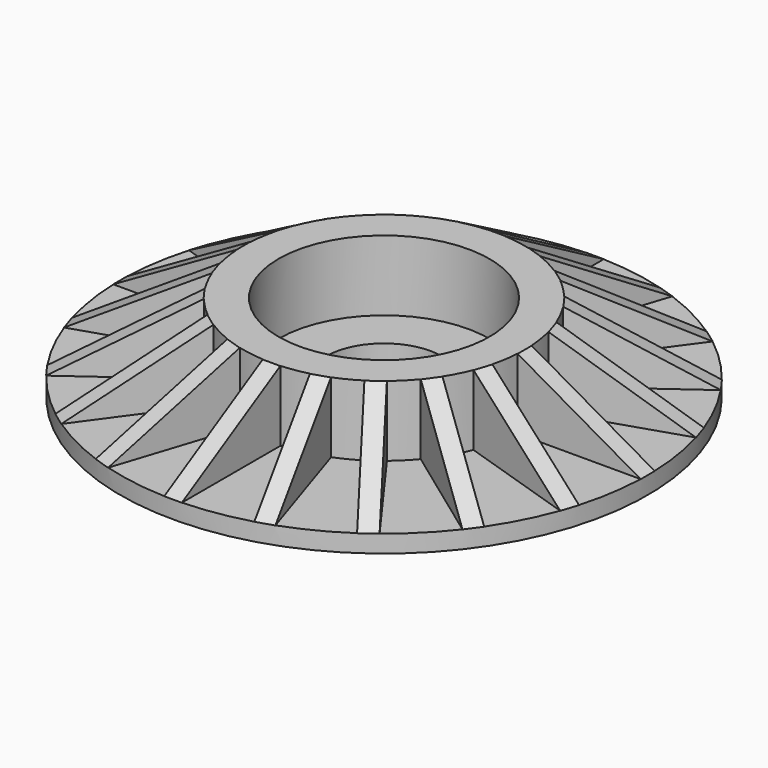
from build123d import *

# Parameters (mm, degrees)
EXTRUDE016_DEPTH = 0.5
ARRAY_COUNT      = 20


with BuildPart() as revolve003:
    # Sketch022 → Revolve003 (revolve)
    with BuildSketch(Plane.XZ):
        Polygon((-3.3, 1), (-15, 1), (-15, 2), (-8, 2), (-8, 6), (-6, 6), (-6, 2), (-3.3, 2), align=None)
    revolve(axis=Axis((0, 0, 0), (0, 0, 1)))


with BuildPart() as barrel003:
    # Sketch023 → Extrude016 (new body, symmetric)
    with BuildSketch(Plane.XZ):
        Polygon((-8, 6), (-15, 2), (-7, 2), (-7, 6), align=None)
    extrude(amount=EXTRUDE016_DEPTH, both=True)

    # Array: barrel003 ×20 about axis
    array_axis = Axis((0, 0, 0), (0, 0, 1))


with BuildPart() as barrel003_1:
    add(barrel003.part)
    for i in range(1, ARRAY_COUNT):
        add(barrel003.part.rotate(array_axis, i * 360 / ARRAY_COUNT))

    # Fusion005: union Revolve003
    add(revolve003.part)


solid = barrel003_1.part
